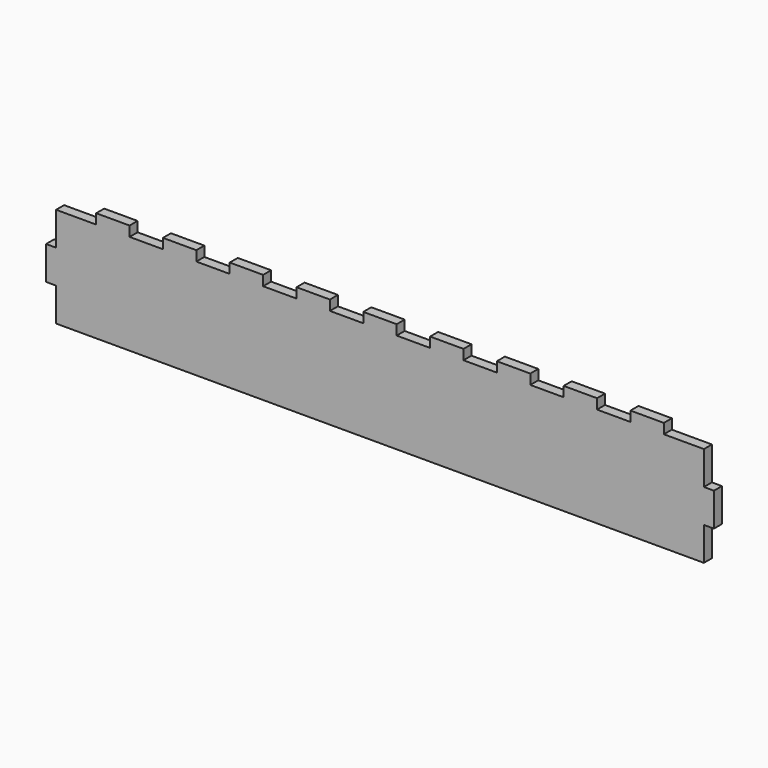
from build123d import *

# Parameters (mm, degrees)
F0_W     = 20
F0_H     = 6
F1_DEPTH = 6


with BuildPart() as f1:
    # F0 (on Front) → F1 (new body)
    with BuildSketch(Plane.XZ):
        Polygon((-194, -30), (194, -30), (194, -10), (200, -10), (200, 10), (194, 10), (194, 30), (170, 30), (150, 30), (130, 30), (110, 30), (90, 30), (70, 30), (50, 30), (30, 30), (10, 30), (-10, 30), (-30, 30), (-50, 30), (-70, 30), (-90, 30), (-110, 30), (-130, 30), (-150, 30), (-170, 30), (-194, 30), (-194, 10), (-200, 10), (-200, -10), (-194, -10), align=None)
        with Locations((-160, 33)):
            Rectangle(F0_W, F0_H)
        with Locations((-120, 33)):
            Rectangle(F0_W, F0_H)
        with Locations((-80, 33)):
            Rectangle(F0_W, F0_H)
        with Locations((-40, 33)):
            Rectangle(F0_W, F0_H)
        with Locations((0, 33)):
            Rectangle(F0_W, F0_H)
        with Locations((40, 33)):
            Rectangle(F0_W, F0_H)
        with Locations((80, 33)):
            Rectangle(F0_W, F0_H)
        with Locations((120, 33)):
            Rectangle(F0_W, F0_H)
        with Locations((160, 33)):
            Rectangle(F0_W, F0_H)
    extrude(amount=F1_DEPTH)


solid = f1.part
